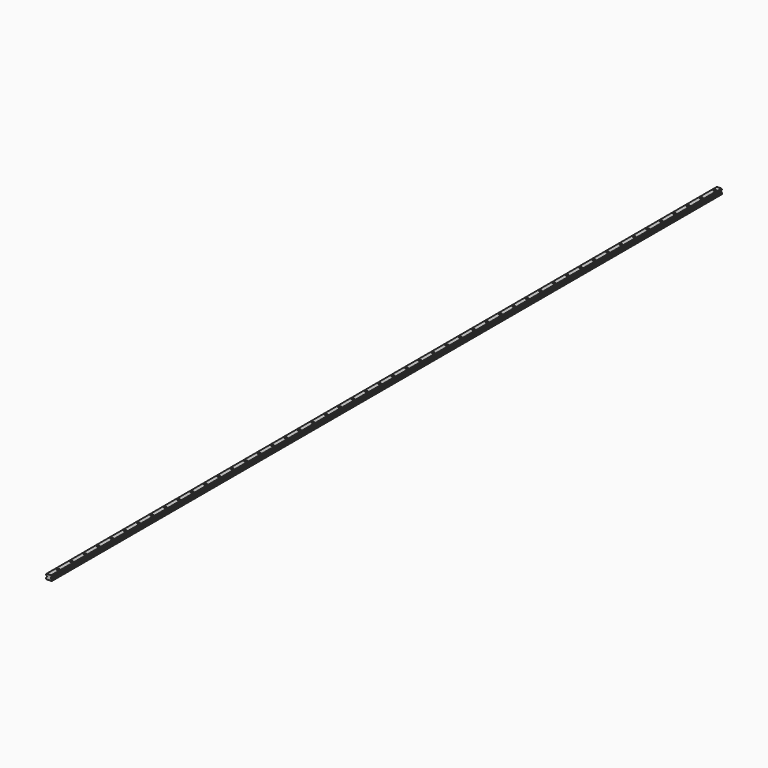
from build123d import *

# Parameters (mm, degrees)
F1_DEPTH = 3000
F2_R     = 3
F3_DEPTH = 18.001
F2_R_2   = 4.75
F4_DEPTH = 8.5


with BuildPart() as f1:
    # F0 (on Front) → F1 (new body)
    with BuildSketch(Plane.XZ):
        with BuildLine():
            Line((-10, 0.424264), (-9.575736, 0))
            Line((-9.575736, 0), (-7.5, 0))
            ThreePointArc((-7.5, 0), (-7, 0.5), (-6.5, 0))
            Line((-6.5, 0), (-2.509309, 0))
            Line((-2.509309, 0), (-2, 0.5))
            Line((-2, 0.5), (2, 0.5))
            Line((2, 0.5), (2.509309, 0))
            Line((2.509309, 0), (9.575736, 0))
            Line((9.575736, 0), (10, 0.424264))
            Line((10, 0.424264), (10, 5.458741))
            Line((10, 5.458741), (7, 8.458741))
            Line((7, 8.458741), (7, 10.929998))
            Line((7, 10.929998), (8.030459, 11.652282))
            ThreePointArc((8.030459, 11.652282), (8.467774, 13.285411), (10, 14))
            Line((10, 14), (10, 16))
            ThreePointArc((10, 16), (8.585786, 16.585786), (8, 18))
            Line((8, 18), (-8, 18))
            ThreePointArc((-8, 18), (-8.585786, 16.585786), (-10, 16))
            Line((-10, 16), (-10, 14))
            ThreePointArc((-10, 14), (-8.585786, 13.414214), (-8, 12))
            ThreePointArc((-8, 12), (-8.007629, 11.825475), (-8.030459, 11.652282))
            Line((-8.030459, 11.652282), (-7, 10.929998))
            Line((-7, 10.929998), (-7, 8.458741))
            Line((-7, 8.458741), (-10, 5.458741))
            Line((-10, 5.458741), (-10, 0.424264))
        make_face()
    extrude(amount=F1_DEPTH)

    # F2 (on face) → F3 (cut, through all)
    with BuildSketch(Plane.XY.offset(18)):
        with BuildLine():
            ThreePointArc((0.001953, -22.999999), (2.122011, -22.12063), (3, -20))
            ThreePointArc((3, -20), (-2.122011, -17.87937), (0.001953, -22.999999))
        make_face()
        with BuildLine():
            ThreePointArc((3.039055, -79.999987), (2.159685, -77.877977), (0.037102, -76.999988))
            ThreePointArc((0.037102, -76.999988), (-2.081575, -82.121998), (3.039055, -79.999987))
        make_face()
        with Locations((0.07811, -139.999975)):
            Circle(F2_R)
        with Locations((0.117165, -199.999962)):
            Circle(F2_R)
        with Locations((0.15622, -259.999949)):
            Circle(F2_R)
        with Locations((0.195275, -319.999936)):
            Circle(F2_R)
        with Locations((0.23433, -379.999924)):
            Circle(F2_R)
        with Locations((0.273385, -439.999911)):
            Circle(F2_R)
        with Locations((0.31244, -499.999898)):
            Circle(F2_R)
        with Locations((0.351495, -559.999886)):
            Circle(F2_R)
        with Locations((0.898265, -1399.999708)):
            Circle(F2_R)
        with Locations((0.85921, -1339.99972)):
            Circle(F2_R)
        with Locations((0.820155, -1279.999733)):
            Circle(F2_R)
        with Locations((0.7811, -1219.999746)):
            Circle(F2_R)
        with Locations((0.742045, -1159.999758)):
            Circle(F2_R)
        with Locations((0.70299, -1099.999771)):
            Circle(F2_R)
        with Locations((0.663935, -1039.999784)):
            Circle(F2_R)
        with Locations((0.62488, -979.999797)):
            Circle(F2_R)
        with Locations((0.585825, -919.999809)):
            Circle(F2_R)
        with Locations((0.54677, -859.999822)):
            Circle(F2_R)
        with Locations((0.507715, -799.999835)):
            Circle(F2_R)
        with Locations((0.46866, -739.999847)):
            Circle(F2_R)
        with Locations((0.429605, -679.99986)):
            Circle(F2_R)
        with Locations((0.39055, -619.999873)):
            Circle(F2_R)
        with Locations((0.93732, -1459.999695)):
            Circle(F2_R)
        with Locations((0.976375, -1519.999682)):
            Circle(F2_R)
        with Locations((1.01543, -1579.99967)):
            Circle(F2_R)
        with Locations((1.054485, -1639.999657)):
            Circle(F2_R)
        with Locations((1.09354, -1699.999644)):
            Circle(F2_R)
        with Locations((1.132595, -1759.999631)):
            Circle(F2_R)
        with Locations((1.171649, -1819.999619)):
            Circle(F2_R)
        with Locations((1.210704, -1879.999606)):
            Circle(F2_R)
        with Locations((1.249759, -1939.999593)):
            Circle(F2_R)
        with Locations((1.288814, -1999.999581)):
            Circle(F2_R)
        with Locations((1.327869, -2059.999568)):
            Circle(F2_R)
        with Locations((1.366924, -2119.999555)):
            Circle(F2_R)
        with Locations((1.405979, -2179.999542)):
            Circle(F2_R)
        with Locations((1.445034, -2239.99953)):
            Circle(F2_R)
        with Locations((1.484089, -2299.999517)):
            Circle(F2_R)
        with Locations((1.523144, -2359.999504)):
            Circle(F2_R)
        with Locations((1.562199, -2419.999492)):
            Circle(F2_R)
        with Locations((1.601254, -2479.999479)):
            Circle(F2_R)
        with Locations((1.640309, -2539.999466)):
            Circle(F2_R)
        with Locations((1.679364, -2599.999453)):
            Circle(F2_R)
        with Locations((1.718419, -2659.999441)):
            Circle(F2_R)
        with Locations((1.757474, -2719.999428)):
            Circle(F2_R)
        with Locations((1.796529, -2779.999415)):
            Circle(F2_R)
        with Locations((1.913694, -2959.999377)):
            Circle(F2_R)
        with Locations((1.874639, -2899.99939)):
            Circle(F2_R)
        with Locations((1.835584, -2839.999403)):
            Circle(F2_R)
    extrude(amount=-F3_DEPTH, mode=Mode.SUBTRACT)

    # F2 (on face) → F4 (cut)
    with BuildSketch(Plane.XY.offset(18)):
        with BuildLine():
            ThreePointArc((0.001953, -22.999999), (2.122011, -22.12063), (3, -20))
            ThreePointArc((3, -20), (-2.122011, -17.87937), (0.001953, -22.999999))
        make_face()
        with BuildLine():
            ThreePointArc((4.75, -20), (-3.35985, -16.642336), (0.003092, -24.749999))
            ThreePointArc((0.003092, -24.749999), (3.35985, -23.357664), (4.75, -20))
        make_face()
        with BuildLine():
            ThreePointArc((0.001953, -22.999999), (-2.122011, -17.87937), (3, -20))
            ThreePointArc((3, -20), (2.122011, -22.12063), (0.001953, -22.999999))
        make_face(mode=Mode.SUBTRACT)
        with BuildLine():
            ThreePointArc((3.039055, -79.999987), (2.159685, -77.877977), (0.037102, -76.999988))
            ThreePointArc((0.037102, -76.999988), (-2.081575, -82.121998), (3.039055, -79.999987))
        make_face()
        with BuildLine():
            ThreePointArc((4.789055, -79.999987), (3.396719, -76.640137), (0.035963, -75.249988))
            ThreePointArc((0.035963, -75.249988), (-3.318609, -83.359837), (4.789055, -79.999987))
        make_face()
        with BuildLine():
            ThreePointArc((3.039055, -79.999987), (-2.081575, -82.121998), (0.037102, -76.999988))
            ThreePointArc((0.037102, -76.999988), (2.159685, -77.877977), (3.039055, -79.999987))
        make_face(mode=Mode.SUBTRACT)
        with Locations((0.07811, -139.999975)):
            Circle(F2_R_2)
        with Locations((0.07811, -139.999975)):
            Circle(F2_R, mode=Mode.SUBTRACT)
        with Locations((0.117165, -199.999962)):
            Circle(F2_R_2)
        with Locations((0.117165, -199.999962)):
            Circle(F2_R, mode=Mode.SUBTRACT)
        with Locations((0.15622, -259.999949)):
            Circle(F2_R_2)
        with Locations((0.15622, -259.999949)):
            Circle(F2_R, mode=Mode.SUBTRACT)
        with Locations((0.195275, -319.999936)):
            Circle(F2_R_2)
        with Locations((0.195275, -319.999936)):
            Circle(F2_R, mode=Mode.SUBTRACT)
        with Locations((0.23433, -379.999924)):
            Circle(F2_R_2)
        with Locations((0.23433, -379.999924)):
            Circle(F2_R, mode=Mode.SUBTRACT)
        with Locations((0.273385, -439.999911)):
            Circle(F2_R_2)
        with Locations((0.273385, -439.999911)):
            Circle(F2_R, mode=Mode.SUBTRACT)
        with Locations((0.31244, -499.999898)):
            Circle(F2_R_2)
        with Locations((0.31244, -499.999898)):
            Circle(F2_R, mode=Mode.SUBTRACT)
        with Locations((0.351495, -559.999886)):
            Circle(F2_R_2)
        with Locations((0.351495, -559.999886)):
            Circle(F2_R, mode=Mode.SUBTRACT)
        with Locations((0.39055, -619.999873)):
            Circle(F2_R_2)
        with Locations((0.39055, -619.999873)):
            Circle(F2_R, mode=Mode.SUBTRACT)
        with Locations((0.429605, -679.99986)):
            Circle(F2_R_2)
        with Locations((0.429605, -679.99986)):
            Circle(F2_R, mode=Mode.SUBTRACT)
        with Locations((0.46866, -739.999847)):
            Circle(F2_R_2)
        with Locations((0.46866, -739.999847)):
            Circle(F2_R, mode=Mode.SUBTRACT)
        with Locations((0.507715, -799.999835)):
            Circle(F2_R_2)
        with Locations((0.507715, -799.999835)):
            Circle(F2_R, mode=Mode.SUBTRACT)
        with Locations((0.54677, -859.999822)):
            Circle(F2_R_2)
        with Locations((0.54677, -859.999822)):
            Circle(F2_R, mode=Mode.SUBTRACT)
        with Locations((0.585825, -919.999809)):
            Circle(F2_R_2)
        with Locations((0.585825, -919.999809)):
            Circle(F2_R, mode=Mode.SUBTRACT)
        with Locations((0.62488, -979.999797)):
            Circle(F2_R_2)
        with Locations((0.62488, -979.999797)):
            Circle(F2_R, mode=Mode.SUBTRACT)
        with Locations((0.663935, -1039.999784)):
            Circle(F2_R_2)
        with Locations((0.663935, -1039.999784)):
            Circle(F2_R, mode=Mode.SUBTRACT)
        with Locations((0.70299, -1099.999771)):
            Circle(F2_R_2)
        with Locations((0.70299, -1099.999771)):
            Circle(F2_R, mode=Mode.SUBTRACT)
        with Locations((0.742045, -1159.999758)):
            Circle(F2_R_2)
        with Locations((0.742045, -1159.999758)):
            Circle(F2_R, mode=Mode.SUBTRACT)
        with Locations((0.7811, -1219.999746)):
            Circle(F2_R_2)
        with Locations((0.7811, -1219.999746)):
            Circle(F2_R, mode=Mode.SUBTRACT)
        with Locations((0.820155, -1279.999733)):
            Circle(F2_R_2)
        with Locations((0.820155, -1279.999733)):
            Circle(F2_R, mode=Mode.SUBTRACT)
        with Locations((0.85921, -1339.99972)):
            Circle(F2_R_2)
        with Locations((0.85921, -1339.99972)):
            Circle(F2_R, mode=Mode.SUBTRACT)
        with Locations((0.898265, -1399.999708)):
            Circle(F2_R_2)
        with Locations((0.898265, -1399.999708)):
            Circle(F2_R, mode=Mode.SUBTRACT)
        with Locations((0.93732, -1459.999695)):
            Circle(F2_R_2)
        with Locations((0.93732, -1459.999695)):
            Circle(F2_R, mode=Mode.SUBTRACT)
        with Locations((0.976375, -1519.999682)):
            Circle(F2_R_2)
        with Locations((0.976375, -1519.999682)):
            Circle(F2_R, mode=Mode.SUBTRACT)
        with Locations((1.01543, -1579.99967)):
            Circle(F2_R_2)
        with Locations((1.01543, -1579.99967)):
            Circle(F2_R, mode=Mode.SUBTRACT)
        with Locations((1.054485, -1639.999657)):
            Circle(F2_R_2)
        with Locations((1.054485, -1639.999657)):
            Circle(F2_R, mode=Mode.SUBTRACT)
        with Locations((1.09354, -1699.999644)):
            Circle(F2_R_2)
        with Locations((1.09354, -1699.999644)):
            Circle(F2_R, mode=Mode.SUBTRACT)
        with Locations((1.132595, -1759.999631)):
            Circle(F2_R_2)
        with Locations((1.132595, -1759.999631)):
            Circle(F2_R, mode=Mode.SUBTRACT)
        with Locations((1.171649, -1819.999619)):
            Circle(F2_R_2)
        with Locations((1.171649, -1819.999619)):
            Circle(F2_R, mode=Mode.SUBTRACT)
        with Locations((1.210704, -1879.999606)):
            Circle(F2_R_2)
        with Locations((1.210704, -1879.999606)):
            Circle(F2_R, mode=Mode.SUBTRACT)
        with Locations((1.249759, -1939.999593)):
            Circle(F2_R_2)
        with Locations((1.249759, -1939.999593)):
            Circle(F2_R, mode=Mode.SUBTRACT)
        with Locations((1.288814, -1999.999581)):
            Circle(F2_R_2)
        with Locations((1.288814, -1999.999581)):
            Circle(F2_R, mode=Mode.SUBTRACT)
        with Locations((1.327869, -2059.999568)):
            Circle(F2_R_2)
        with Locations((1.327869, -2059.999568)):
            Circle(F2_R, mode=Mode.SUBTRACT)
        with Locations((1.366924, -2119.999555)):
            Circle(F2_R_2)
        with Locations((1.366924, -2119.999555)):
            Circle(F2_R, mode=Mode.SUBTRACT)
        with Locations((1.405979, -2179.999542)):
            Circle(F2_R_2)
        with Locations((1.405979, -2179.999542)):
            Circle(F2_R, mode=Mode.SUBTRACT)
        with Locations((1.445034, -2239.99953)):
            Circle(F2_R_2)
        with Locations((1.445034, -2239.99953)):
            Circle(F2_R, mode=Mode.SUBTRACT)
        with Locations((1.484089, -2299.999517)):
            Circle(F2_R_2)
        with Locations((1.484089, -2299.999517)):
            Circle(F2_R, mode=Mode.SUBTRACT)
        with Locations((1.523144, -2359.999504)):
            Circle(F2_R_2)
        with Locations((1.523144, -2359.999504)):
            Circle(F2_R, mode=Mode.SUBTRACT)
        with Locations((1.562199, -2419.999492)):
            Circle(F2_R_2)
        with Locations((1.562199, -2419.999492)):
            Circle(F2_R, mode=Mode.SUBTRACT)
        with Locations((1.601254, -2479.999479)):
            Circle(F2_R_2)
        with Locations((1.601254, -2479.999479)):
            Circle(F2_R, mode=Mode.SUBTRACT)
        with Locations((1.640309, -2539.999466)):
            Circle(F2_R_2)
        with Locations((1.640309, -2539.999466)):
            Circle(F2_R, mode=Mode.SUBTRACT)
        with Locations((1.679364, -2599.999453)):
            Circle(F2_R_2)
        with Locations((1.679364, -2599.999453)):
            Circle(F2_R, mode=Mode.SUBTRACT)
        with Locations((1.718419, -2659.999441)):
            Circle(F2_R_2)
        with Locations((1.718419, -2659.999441)):
            Circle(F2_R, mode=Mode.SUBTRACT)
        with Locations((1.757474, -2719.999428)):
            Circle(F2_R_2)
        with Locations((1.757474, -2719.999428)):
            Circle(F2_R, mode=Mode.SUBTRACT)
        with Locations((1.796529, -2779.999415)):
            Circle(F2_R_2)
        with Locations((1.796529, -2779.999415)):
            Circle(F2_R, mode=Mode.SUBTRACT)
        with Locations((1.835584, -2839.999403)):
            Circle(F2_R_2)
        with Locations((1.835584, -2839.999403)):
            Circle(F2_R, mode=Mode.SUBTRACT)
        with Locations((1.874639, -2899.99939)):
            Circle(F2_R_2)
        with Locations((1.874639, -2899.99939)):
            Circle(F2_R, mode=Mode.SUBTRACT)
        with Locations((1.913694, -2959.999377)):
            Circle(F2_R_2)
        with Locations((1.913694, -2959.999377)):
            Circle(F2_R, mode=Mode.SUBTRACT)
    extrude(amount=-F4_DEPTH, mode=Mode.SUBTRACT)


solid = f1.part
